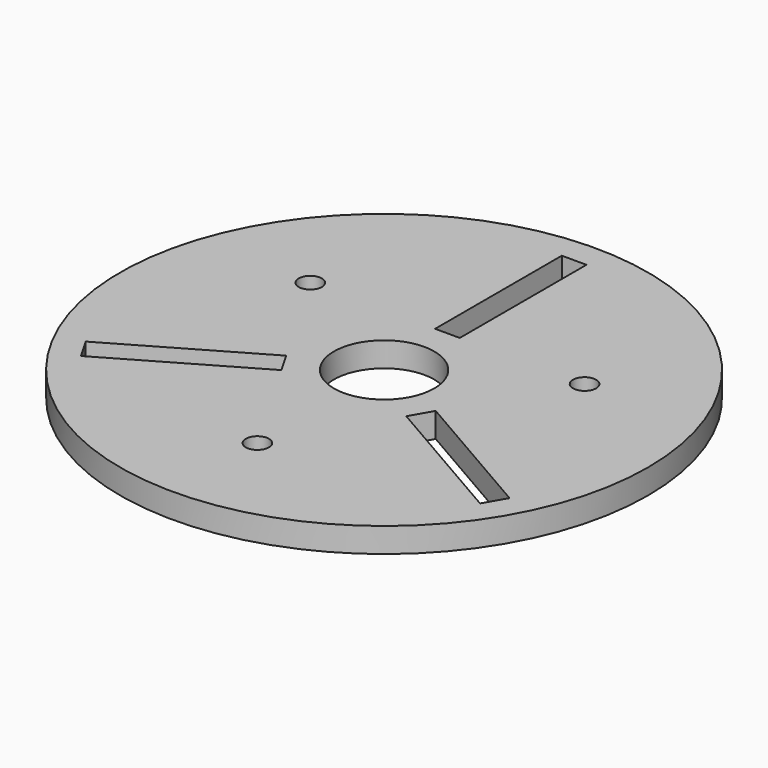
from build123d import *

# Parameters (mm, degrees)
F0_R     = 31.75
F1_DEPTH = 2.9718
F2_R     = 6.0325
F2_W     = 2.9718
F2_H     = 19.05
F2_R_2   = 1.397
F3_DEPTH = 2.9718


with BuildPart() as f1:
    # F0 (on Top) → F1 (new body)
    with BuildSketch(Plane.XY):
        Circle(F0_R)
    extrude(amount=-F1_DEPTH)

    # F2 (on face) → F3 (cut, through all)
    with BuildSketch(Plane.XY):
        Circle(F2_R)
        with Locations((0, 19.05)):
            Rectangle(F2_W, F2_H)
        Polygon((-7.505942, -6.049327), (-8.991842, -3.475673), (-25.489626, -13.000673), (-24.003726, -15.574327), align=None)
        Polygon((8.991842, -3.475673), (7.505942, -6.049327), (24.003726, -15.574327), (25.489626, -13.000673), align=None)
        with Locations((-16.497784, 9.525)):
            Circle(F2_R_2)
        with Locations((16.497784, 9.525)):
            Circle(F2_R_2)
        with Locations((0, -19.05)):
            Circle(F2_R_2)
    extrude(amount=-F3_DEPTH, mode=Mode.SUBTRACT)


solid = f1.part
